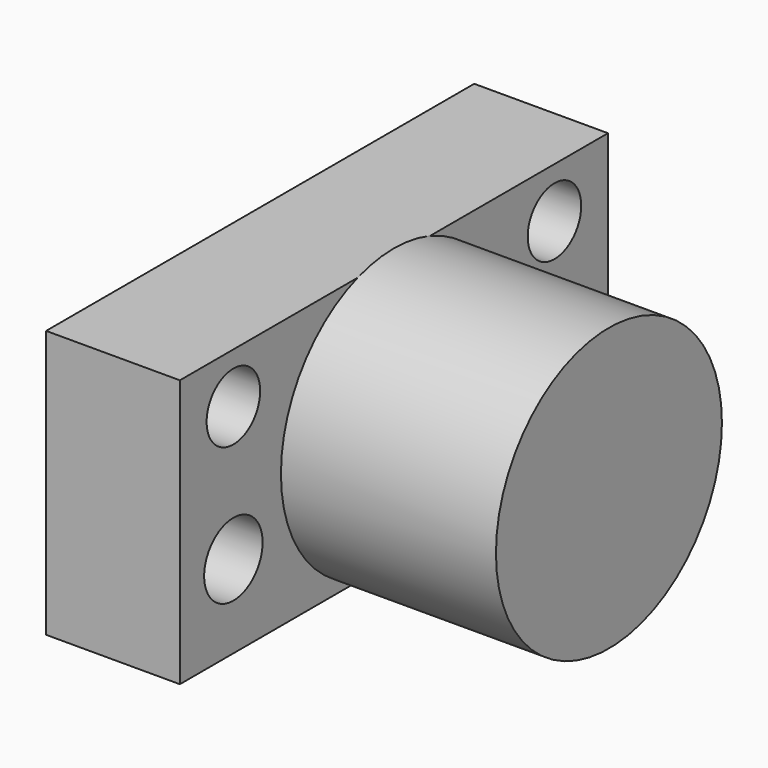
from build123d import *

# Parameters (mm, degrees)
F0_W     = 101.6
F0_H     = 50.8
F1_DEPTH = 25.4
F2_R     = 6.35
F2_R_2   = 6.933717
F3_DEPTH = 25.401
F4_W     = 40.821289
F4_H     = 26.813686


with BuildPart() as f1:
    # F0 (on Right) → F1 (new body)
    with BuildSketch(Plane.YZ):
        Rectangle(F0_W, F0_H)
    extrude(amount=F1_DEPTH)

    # F2 (on face) → F3 (cut, through all)
    with BuildSketch(Plane.YZ.offset(25.4)):
        with Locations((-38.1, 15.86114)):
            Circle(F2_R)
        with Locations((38.1, 15.86114)):
            Circle(F2_R)
        with Locations((38.1, -9.666498)):
            Circle(F2_R_2)
        with Locations((-38.1, -9.666498)):
            Circle(F2_R_2)
    extrude(amount=-F3_DEPTH, mode=Mode.SUBTRACT)

    # F4 (on Top) → F5 (revolve)
    with BuildSketch(Plane.XY):
        with Locations((45.810644, -13.406843)):
            Rectangle(F4_W, F4_H)
    revolve(axis=Axis((45.810645, 0, 0), (-1, 0, 0)))


solid = f1.part
